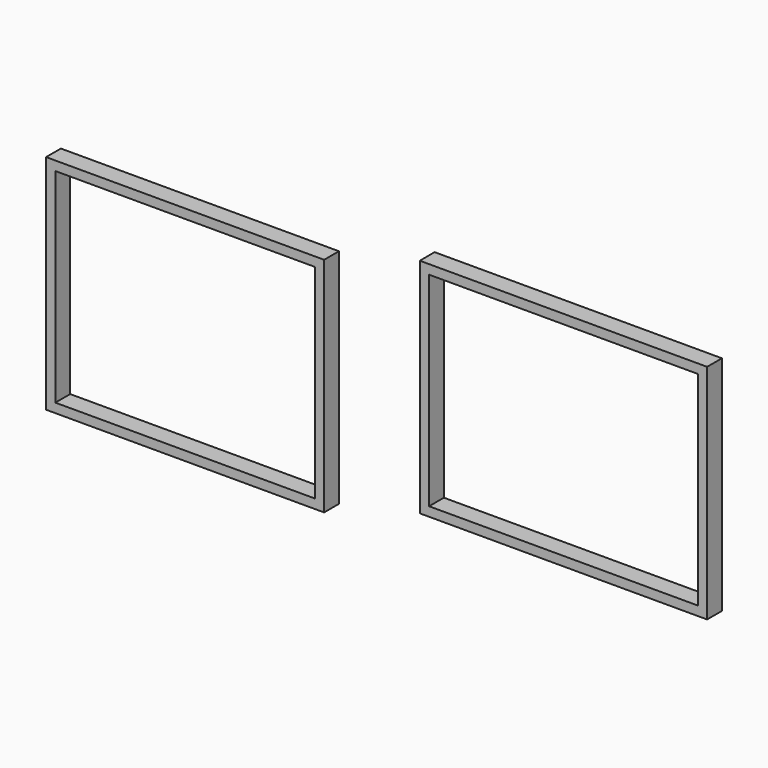
from build123d import *

# Parameters (mm, degrees)
F0_W     = 787.4
F0_H     = 50.8
F1_DEPTH = 609.6
F2_W     = 736.6
F2_H     = 558.8
F3_DEPTH = 50.8
F4_W     = 762
F4_H     = 609.6
F5_DEPTH = 50.8
F6_W     = 711.2
F6_H     = 558.8
F7_DEPTH = 50.8


with BuildPart() as f1:
    # F0 (on Top) → F1 (new body)
    with BuildSketch(Plane.XY):
        with Locations((0, 163.867116)):
            Rectangle(F0_W, F0_H)
    extrude(amount=F1_DEPTH)

    # F2 (on face) → F3 (cut)
    with BuildSketch(Plane.XZ.offset(-138.467116)):
        with Locations((0, 304.8)):
            Rectangle(F2_W, F2_H)
    extrude(amount=-F3_DEPTH, mode=Mode.SUBTRACT)


with BuildPart() as f5:
    # F4 (on face) → F5 (new body)
    with BuildSketch(Plane.XZ.offset(-138.467116)):
        with Locations((-1036.968154, 221.734259)):
            Rectangle(F4_W, F4_H)
    extrude(amount=-F5_DEPTH)

    # F6 (on face) → F7 (cut)
    with BuildSketch(Plane.XZ.offset(-138.467116)):
        with Locations((-1036.968154, 221.734259)):
            Rectangle(F6_W, F6_H)
    extrude(amount=-F7_DEPTH, mode=Mode.SUBTRACT)


solid = Compound([f1.part, f5.part])
